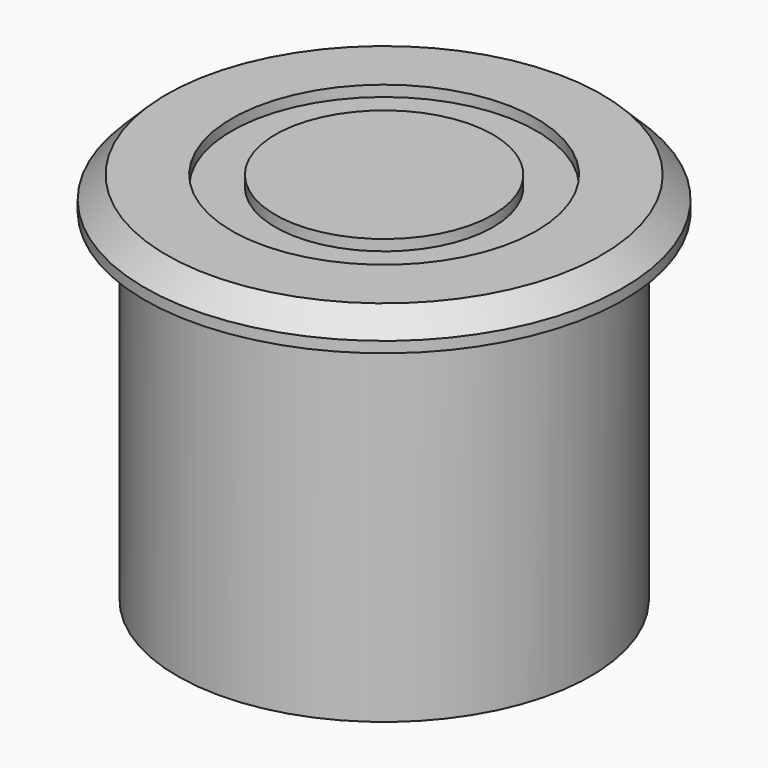
from build123d import *

# Parameters (mm, degrees)
F2_R     = 7
F2_R_2   = 5
F3_DEPTH = 0.5


with BuildPart() as f1:
    # F0 (on Right) → F1 (revolve)
    with BuildSketch(Plane.YZ):
        Polygon((0, 17.2), (0, 0), (9.5, 0), (9.5, 15.7), (11, 15.7), (11, 16.2), (10, 17.2), align=None)
    revolve(axis=Axis((0, 0, 8.6), (0, 0, 1)))

    # F2 (on face) → F3 (cut)
    with BuildSketch(Plane.XY.offset(17.2)):
        Circle(F2_R)
        Circle(F2_R_2, mode=Mode.SUBTRACT)
    extrude(amount=-F3_DEPTH, mode=Mode.SUBTRACT)


solid = f1.part
